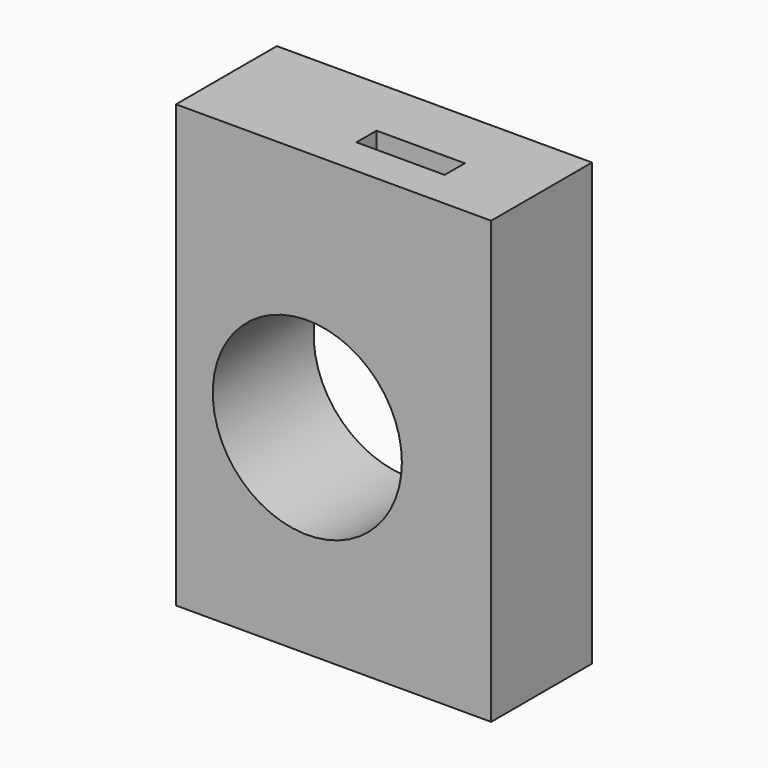
from build123d import *

# Parameters (mm, degrees)
F0_W     = 250
F0_H     = 350
F1_DEPTH = 100
F2_R     = 75
F3_DEPTH = 267
F4_W     = 70
F4_H     = 20
F5_DEPTH = 205


with BuildPart() as f1:
    # F0 (on Front) → F1 (new body)
    with BuildSketch(Plane.XZ):
        Rectangle(F0_W, F0_H)
    extrude(amount=F1_DEPTH)

    # F2 (on face) → F3 (cut)
    with BuildSketch(Plane.XZ.offset(100)):
        with Locations((-20.83086, -16.859313)):
            Circle(F2_R)
    extrude(amount=-F3_DEPTH, mode=Mode.SUBTRACT)

    # F4 (on face) → F5 (cut)
    with BuildSketch(Plane.XY.offset(175)):
        with Locations((29.123203, -60)):
            Rectangle(F4_W, F4_H)
    extrude(amount=-F5_DEPTH, mode=Mode.SUBTRACT)


solid = f1.part
